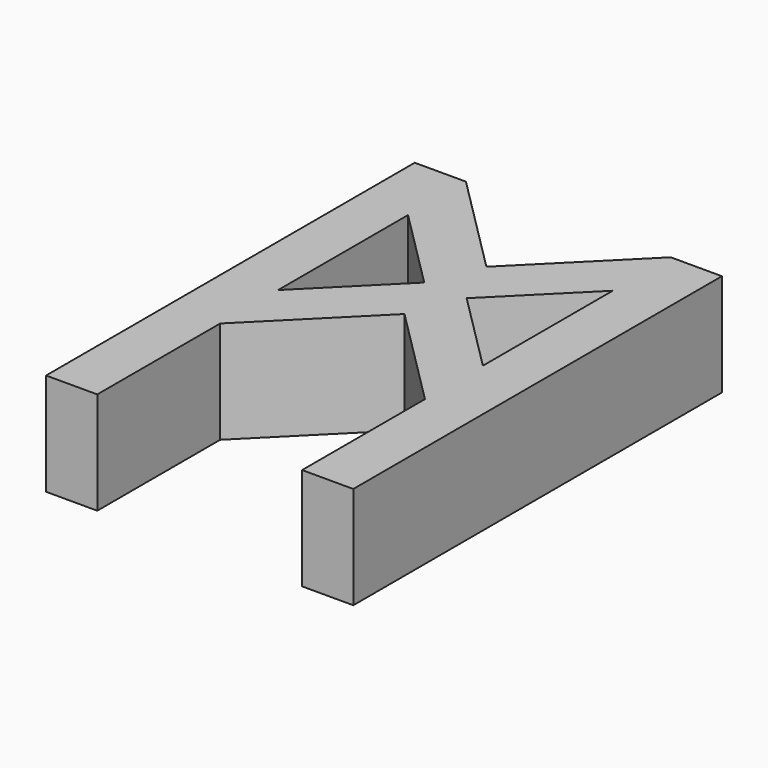
from build123d import *

# Parameters (mm, degrees)
F1_DEPTH = 8


with BuildPart() as f1:
    # F0 (on Top) → F1 (new body)
    with BuildSketch(Plane.XY):
        Polygon((4, -36), (4, -24), (12, -16), (20, -24), (20, -36), (24, -36), (24, 0), (20, 0), (12, -8), (4, 0), (0, 0), (0, -36), align=None)
        Polygon((10.343146, -12), (4, -18.343146), (4, -5.656854), align=None, mode=Mode.SUBTRACT)
        Polygon((20, -18.343146), (13.656854, -12), (20, -5.656854), align=None, mode=Mode.SUBTRACT)
    extrude(amount=F1_DEPTH)


solid = f1.part
